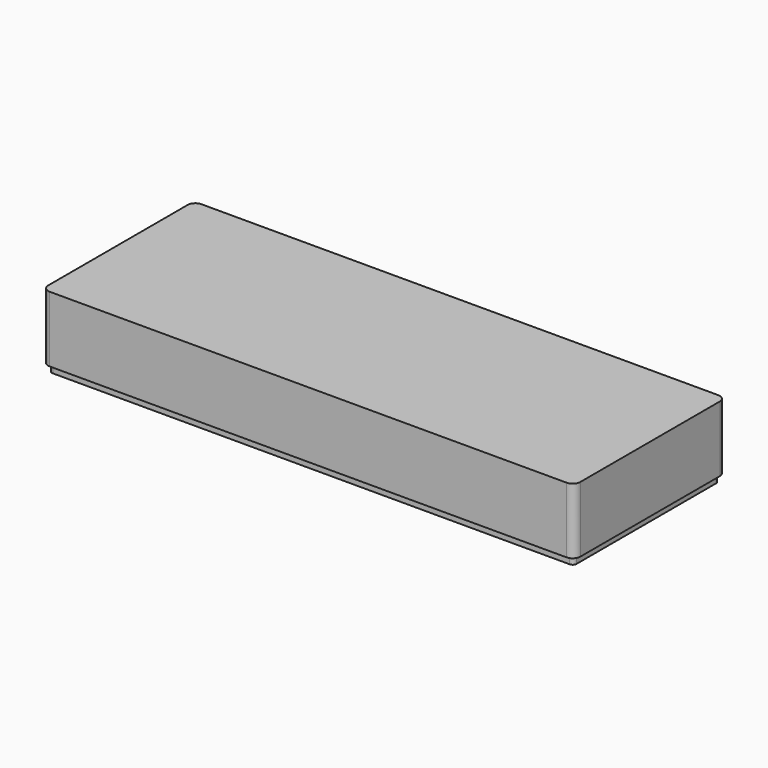
from build123d import *

# Parameters (mm, degrees)
F0_W     = 220.98
F0_H     = 78.74
F1_DEPTH = 30.48
F2_R     = 3.175
F4_DEPTH = 3.175


with BuildPart() as f1:
    # F0 (on Top) → F1 (new body)
    with BuildSketch(Plane.XY):
        Rectangle(F0_W, F0_H)
    extrude(amount=F1_DEPTH)

    # F2
    f2_edges = [f1.edges().sort_by_distance(p)[0] for p in [
        (-110.49, -39.37, 15.24),
        (110.49, 39.37, 15.24),
        (110.49, -39.37, 15.24),
        (-110.49, 39.37, 15.24),
    ]]
    fillet(f2_edges, radius=F2_R)

    # F3 (on face) → F4 (cut)
    with BuildSketch(Plane(origin=(0, 0, 0), x_dir=(1, 0, 0), z_dir=(0, 0, -1))):
        with BuildLine():
            ThreePointArc((110.49, 36.195), (109.560064, 38.440064), (107.315, 39.37))
            Line((107.315, 39.37), (-107.315, 39.37))
            ThreePointArc((-107.315, 39.37), (-109.560064, 38.440064), (-110.49, 36.195))
            Line((-110.49, 36.195), (-110.49, -36.195))
            ThreePointArc((-110.49, -36.195), (-109.560064, -38.440064), (-107.315, -39.37))
            Line((-107.315, -39.37), (107.315, -39.37))
            ThreePointArc((107.315, -39.37), (109.560064, -38.440064), (110.49, -36.195))
            Line((110.49, -36.195), (110.49, 36.195))
        make_face()
        with BuildLine():
            ThreePointArc((107.315, 37.7825), (108.437532, 37.317532), (108.9025, 36.195))
            Line((108.9025, 36.195), (108.9025, -36.195))
            ThreePointArc((108.9025, -36.195), (108.437532, -37.317532), (107.315, -37.7825))
            Line((107.315, -37.7825), (-107.315, -37.7825))
            ThreePointArc((-107.315, -37.7825), (-108.437532, -37.317532), (-108.9025, -36.195))
            Line((-108.9025, -36.195), (-108.9025, 36.195))
            ThreePointArc((-108.9025, 36.195), (-108.437532, 37.317532), (-107.315, 37.7825))
            Line((-107.315, 37.7825), (107.315, 37.7825))
        make_face(mode=Mode.SUBTRACT)
    extrude(amount=-F4_DEPTH, mode=Mode.SUBTRACT)


solid = f1.part
